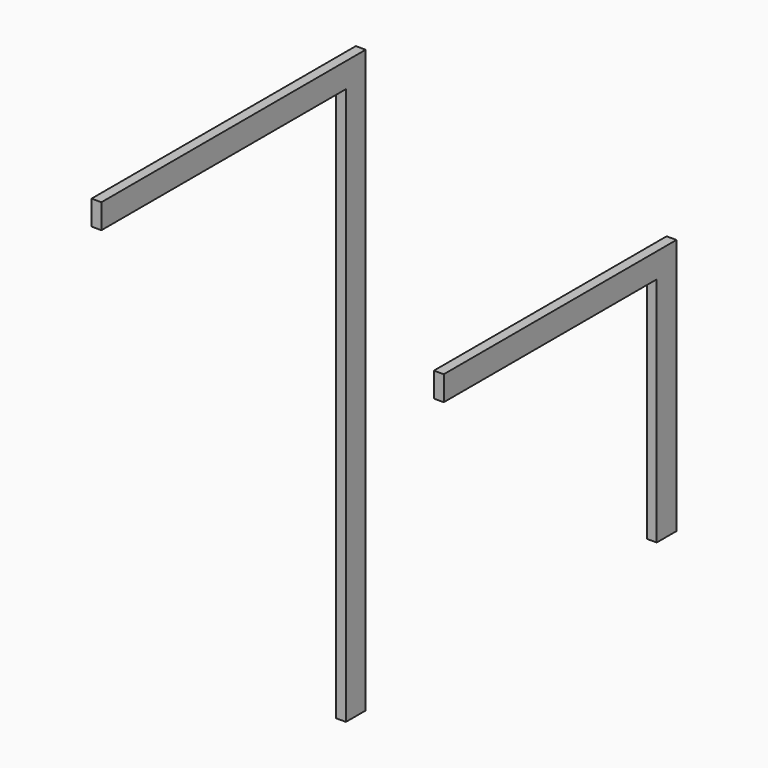
from build123d import *

# Parameters (mm, degrees)
F1_DEPTH = 20
F3_DEPTH = 20


with BuildPart() as f1:
    # F0 (on Right) → F1 (new body)
    with BuildSketch(Plane.YZ):
        Polygon((0, 470), (0, 0), (50, 0), (50, 520), (-540, 520), (-540, 470), align=None)
    extrude(amount=F1_DEPTH)


with BuildPart() as f3:
    # F2 (on Right) → F3 (new body)
    with BuildSketch(Plane.YZ):
        Polygon((-788.044024, 0), (-738.044024, 0), (-738.044024, 1180), (-1408.044024, 1180), (-1408.044024, 1130), (-788.044024, 1130), align=None)
    extrude(amount=F3_DEPTH)


solid = Compound([f1.part, f3.part])
